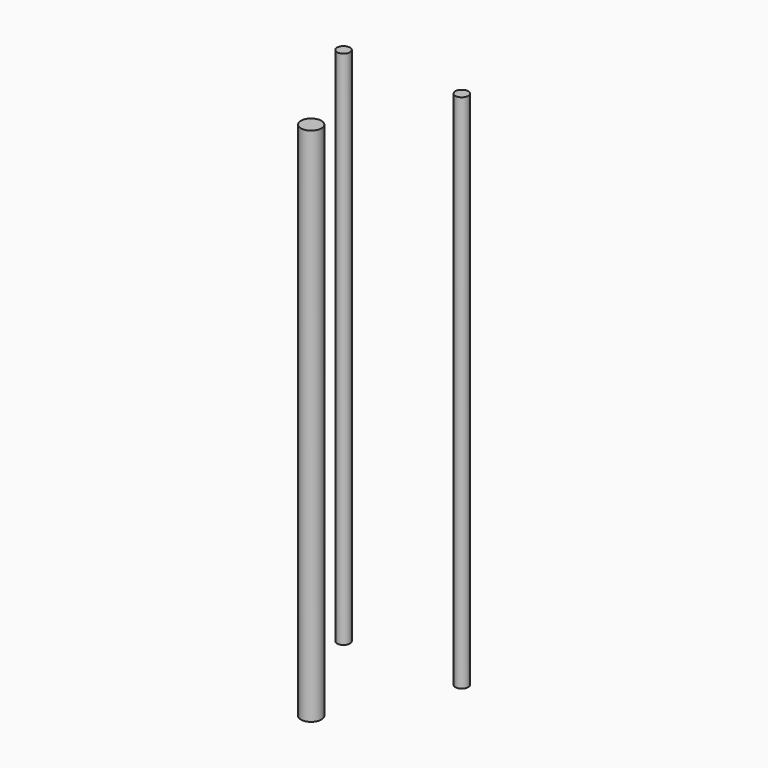
from build123d import *

# Parameters (mm, degrees)
BINDER_R      = 4
BINDER_R_2    = 2.5
EXTRUDE_DEPTH = 202.52


with BuildPart() as part:
    # Binder → Extrude (new body)
    with BuildSketch(Plane(origin=(0, -27.25, 0), x_dir=(0, 1, 0), z_dir=(0, 0, 1))):
        Circle(BINDER_R)
        with Locations((44.499998, 23.000001)):
            Circle(BINDER_R_2)
        with Locations((44.50001, -22.999993)):
            Circle(BINDER_R_2)
    extrude(amount=EXTRUDE_DEPTH)


solid = part.part
